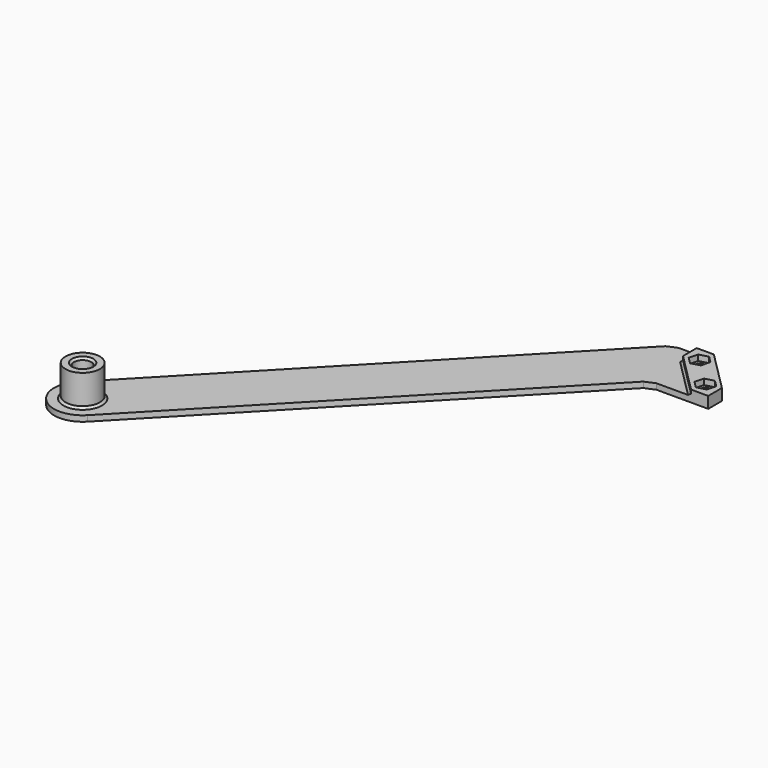
from build123d import *

# Parameters (mm, degrees)
SKETCH_R        = 1.75
PAD_DEPTH       = 2
PAD001_DEPTH    = 2
SKETCH002_R     = 3.25
PAD002_DEPTH    = 7
SKETCH003_R     = 6
SKETCH003_R_2   = 3
PAD003_DEPTH    = 11
CHAMFER_SIZE    = 2
CHAMFER001_SIZE = 0.75


with BuildPart() as part:
    # Sketch → Pad (new body)
    with BuildSketch(Plane.XY):
        with BuildLine():
            Line((-15.146068, 15.146068), (-9.146068, 15.146068))
            Line((-9.146068, 15.146068), (4.996068, 1.003932))
            Line((4.996068, 1.003932), (4.996068, -4.996068))
            Line((4.996068, -4.996068), (-15.146068, -4.996068))
            Line((-15.146068, -4.996068), (-122.792176, -116.931614))
            ThreePointArc((-137.207846, -103.068409), (-136.931603, -117.207835), (-122.792176, -116.931614))
            Line((-23.52342, 15.146068), (-137.207846, -103.068409))
            Line((-15.146068, 15.146068), (-23.52342, 15.146068))
        make_face()
        Circle(SKETCH_R, mode=Mode.SUBTRACT)
        with Locations((-10.15, 10.15)):
            Circle(SKETCH_R, mode=Mode.SUBTRACT)
    extrude(amount=-PAD_DEPTH)

    # Sketch001 → Pad001 (join)
    with BuildSketch(Plane.XY):
        Polygon((-9.146068, 15.146068), (-15.146068, 15.146068), (-15.146068, 9.146068), (-1.003932, -4.996068), (4.996068, -4.996068), (4.996068, 1.003932), align=None)
        Polygon((-0.841162, -3.139259), (2.298097, -2.298097), (3.139259, 0.841162), (0.841162, 3.139259), (-2.298097, 2.298097), (-3.139259, -0.841162), align=None, mode=Mode.SUBTRACT)
        Polygon((-7.851903, 7.851903), (-7.010741, 10.991162), (-9.308838, 13.289259), (-12.448097, 12.448097), (-13.289259, 9.308838), (-10.991162, 7.010741), align=None, mode=Mode.SUBTRACT)
    extrude(amount=PAD001_DEPTH)

    # Sketch002 → Pad002 (join)
    with BuildSketch(Plane.XY):
        with Locations((-130, -110)):
            Circle(SKETCH002_R)
    extrude(amount=PAD002_DEPTH)

    # Sketch003 → Pad003 (join)
    with BuildSketch(Plane.XY):
        with Locations((-130, -110)):
            Circle(SKETCH003_R)
        with Locations((-130, -110)):
            Circle(SKETCH003_R_2, mode=Mode.SUBTRACT)
    extrude(amount=PAD003_DEPTH)

    # Chamfer
    chamfer_edges = [part.edges().sort_by_distance(p)[0] for p in [
        (-15.146068, -4.996068, -1),
        (-23.52342, 15.146068, -1),
    ]]
    chamfer(chamfer_edges, length=CHAMFER_SIZE)

    # Chamfer001
    chamfer001_edges = [part.edges().sort_by_distance(p)[0] for p in [
        (-133, -110, 11),
        (-136, -110, 0),
        (-8.075, 2.075, 0),
        (-15.146068, 12.146068, 0),
    ]]
    chamfer(chamfer001_edges, length=CHAMFER001_SIZE)


solid = part.part
